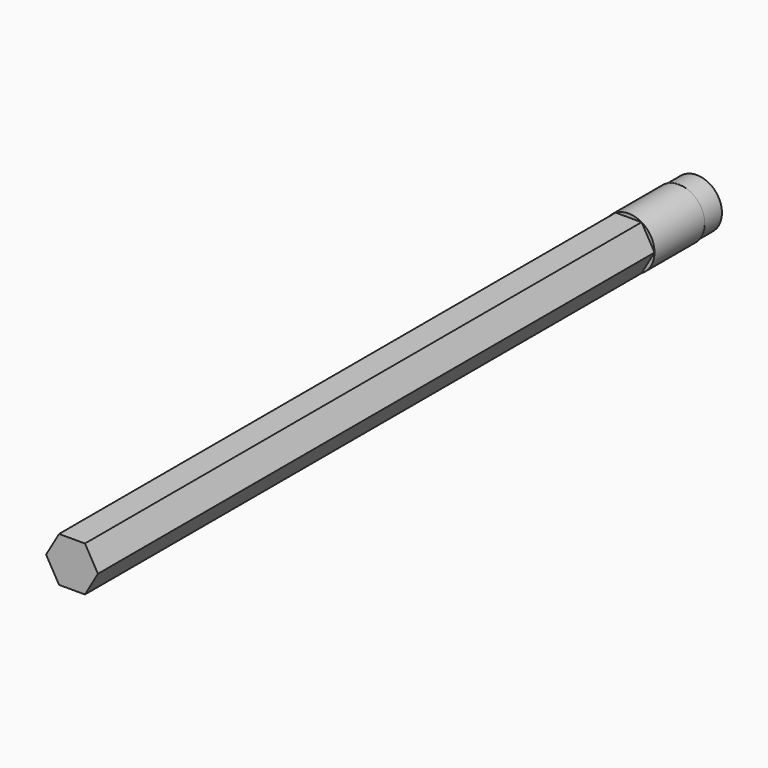
from build123d import *

# Parameters (mm, degrees)
F1_DEPTH = 155
F2_R     = 5.771904
F3_DEPTH = 14
F4_R     = 5.598991
F5_DEPTH = 5


with BuildPart() as f1:
    # F0 (on Front) → F1 (new body)
    with BuildSketch(Plane.XZ):
        Polygon((-23.7997, 29.310288), (-26.684851, 34.311212), (-32.458353, 34.313059), (-35.346705, 29.313983), (-32.461553, 24.31306), (-26.688051, 24.311212), align=None)
    extrude(amount=F1_DEPTH)


with BuildPart() as f3:
    # F2 (on face) → F3 (new body)
    with BuildSketch(Plane(origin=(0, 0, 0), x_dir=(-1, 0, 0), z_dir=(0, 1, 0))):
        with Locations((29.571602, 29.313983)):
            Circle(F2_R)
    extrude(amount=F3_DEPTH)


with BuildPart() as f5:
    # F4 (on face) → F5 (new body)
    with BuildSketch(Plane(origin=(0, 14, 0), x_dir=(-1, 0, 0), z_dir=(0, 1, 0))):
        with Locations((29.571602, 29.313983)):
            Circle(F4_R)
    extrude(amount=F5_DEPTH)


solid = Compound([f1.part, f3.part, f5.part])
